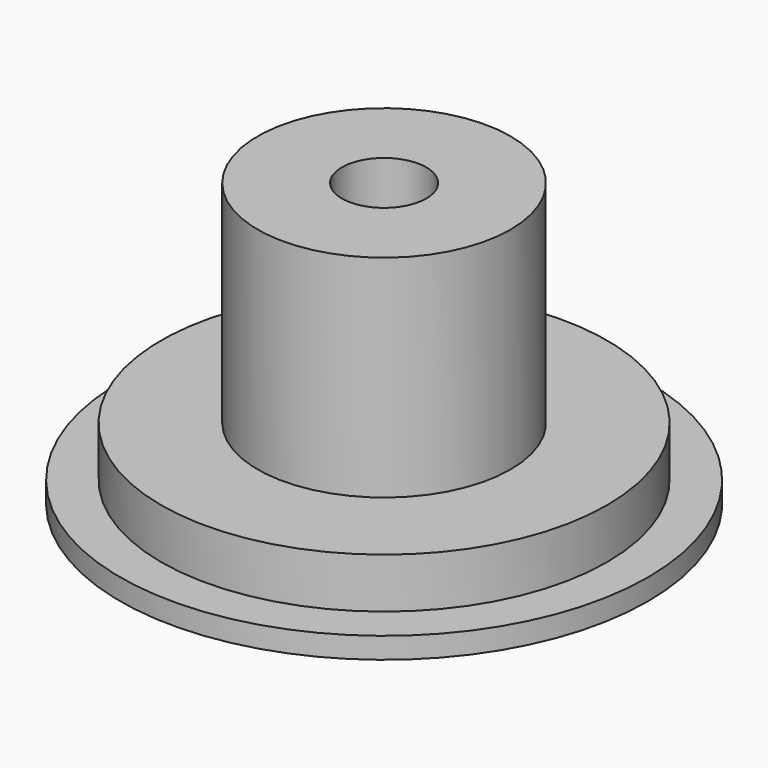
from build123d import *

# Parameters (mm, degrees)
F0_R     = 26.8224
F0_R_2   = 11.049
F1_DEPTH = 6.985
F0_R_3   = 31.75
F2_DEPTH = 2.54
F3_R     = 26.8224
F3_R_2   = 11.049
F3_R_3   = 5.08
F4_DEPTH = 1.5875
F5_R     = 15.207522
F5_R_2   = 5.08
F6_DEPTH = 25.4


with BuildPart() as f1:
    # F0 (on Top) → F1 (new body)
    with BuildSketch(Plane.XY):
        Circle(F0_R)
        Circle(F0_R_2, mode=Mode.SUBTRACT)
    extrude(amount=F1_DEPTH)

    # F0 (on Top) → F2 (join)
    with BuildSketch(Plane.XY):
        Circle(F0_R_3)
        Circle(F0_R, mode=Mode.SUBTRACT)
    extrude(amount=F2_DEPTH)

    # F3 (on face) → F4 (join)
    with BuildSketch(Plane.XY.offset(6.985)):
        Circle(F3_R)
        Circle(F3_R_2, mode=Mode.SUBTRACT)
        Circle(F3_R_2)
        Circle(F3_R_3, mode=Mode.SUBTRACT)
    extrude(amount=F4_DEPTH)

    # F5 (on face) → F6 (join)
    with BuildSketch(Plane.XY.offset(8.5725)):
        Circle(F5_R)
        Circle(F5_R_2, mode=Mode.SUBTRACT)
    extrude(amount=F6_DEPTH)


solid = f1.part
